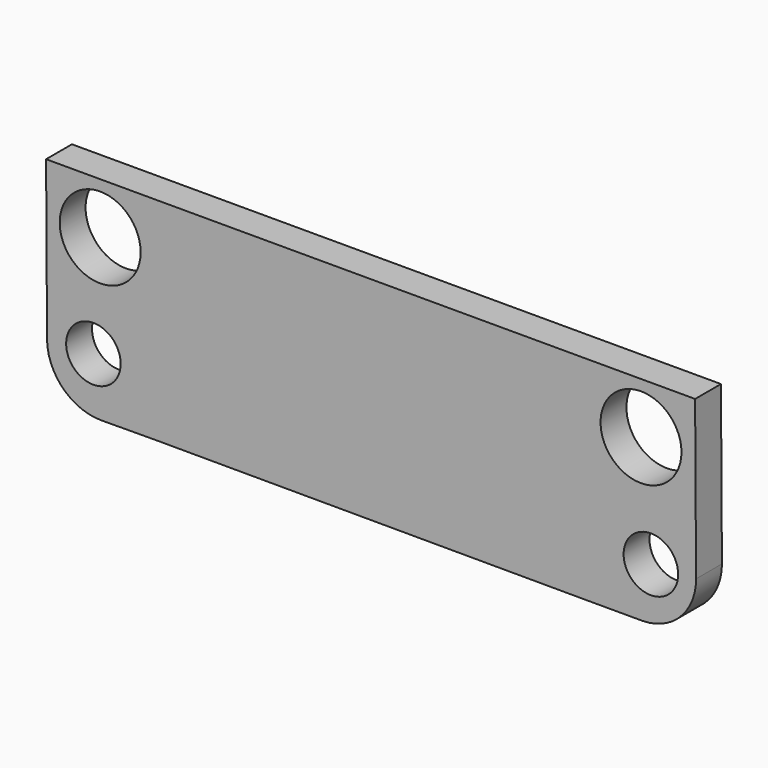
from build123d import *

# Parameters (mm, degrees)
F0_R     = 1.6002
F0_R_2   = 2.3749
F1_DEPTH = 1.89738


with BuildPart() as f1:
    # F0 (on Front) → F1 (new body)
    with BuildSketch(Plane.XZ):
        with BuildLine():
            Line((30.803165, 27.752104), (-7.296835, 27.752104))
            Line((-7.296835, 27.752104), (-7.240266, 18.437498))
            ThreePointArc((-7.240266, 18.437498), (-6.286852, 16.216634), (-4.046344, 15.310343))
            Line((-4.046344, 15.310343), (-0.869708, 15.329635))
            Line((-0.869708, 15.329635), (24.528914, 15.279349))
            Line((24.528914, 15.279349), (27.703914, 15.279349))
            ThreePointArc((27.703914, 15.279349), (29.943251, 16.222922), (30.859515, 18.473572))
            Line((30.859515, 18.473572), (30.803165, 27.752104))
        make_face()
        with Locations((-4.519141, 18.598825)):
            Circle(F0_R, mode=Mode.SUBTRACT)
        with Locations((28.207415, 18.36364)):
            Circle(F0_R, mode=Mode.SUBTRACT)
        with Locations((-4.121835, 24.740549)):
            Circle(F0_R_2, mode=Mode.SUBTRACT)
        with Locations((27.628165, 24.740549)):
            Circle(F0_R_2, mode=Mode.SUBTRACT)
    extrude(amount=F1_DEPTH)


solid = f1.part
